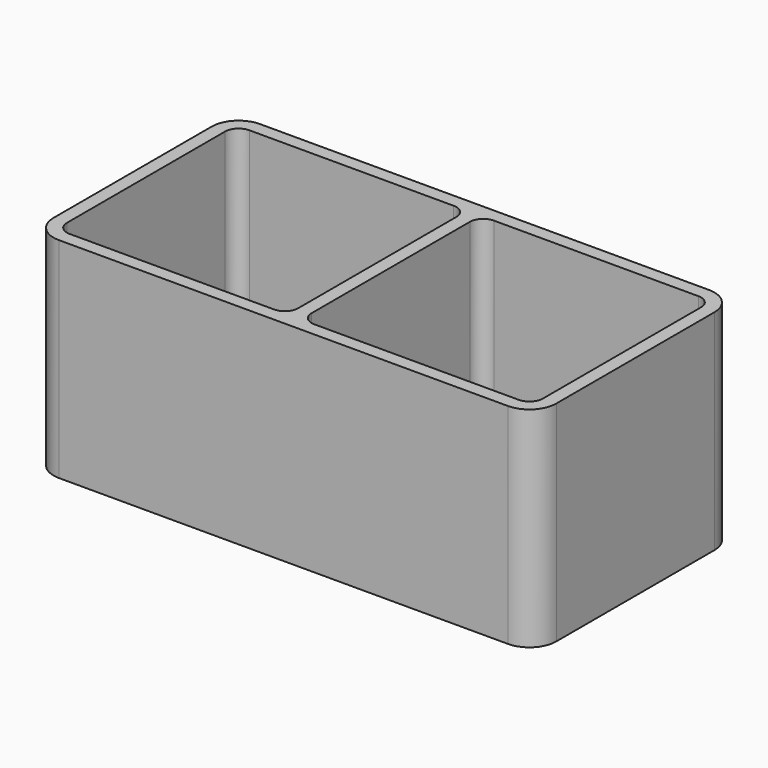
from build123d import *

# Parameters (mm, degrees)
F0_W     = 60
F0_H     = 30
F1_DEPTH = 25
F2_R     = 3.2
F3_T     = -1.6
F4_W     = 1.6
F4_H     = 26.8
F5_DEPTH = 23.4
F6_R     = 1.6
F7_R     = 1.6


with BuildPart() as f1:
    # F0 (on Top) → F1 (new body)
    with BuildSketch(Plane.XY):
        Rectangle(F0_W, F0_H)
    extrude(amount=F1_DEPTH)

    # F2
    f2_edges = [f1.edges().sort_by_distance(p)[0] for p in [
        (-30, 15, 12.5),
        (-30, -15, 12.5),
        (30, -15, 12.5),
        (30, 15, 12.5),
    ]]
    fillet(f2_edges, radius=F2_R)

    # F3
    f3_openings = [f1.faces().sort_by_distance(p)[0] for p in [
        (0, 0, 25),
    ]]
    offset(amount=F3_T, openings=f3_openings)

    # F4 (on face) → F5 (join, through all)
    with BuildSketch(Plane.XY.offset(25)):
        Rectangle(F4_W, F4_H)
    extrude(amount=-F5_DEPTH)

    # F6
    f6_edges = [f1.edges().sort_by_distance(p)[0] for p in [
        (-0.8, 13.4, 13.3),
        (0.8, 13.4, 13.3),
        (-0.8, -13.4, 13.3),
        (0.8, -13.4, 13.3),
    ]]
    fillet(f6_edges, radius=F6_R)

    # F7
    f7_edges = [f1.edges().sort_by_distance(p)[0] for p in [
        (-14.6, 13.4, 1.6),
        (14.6, 13.4, 1.6),
    ]]
    fillet(f7_edges, radius=F7_R)


solid = f1.part
